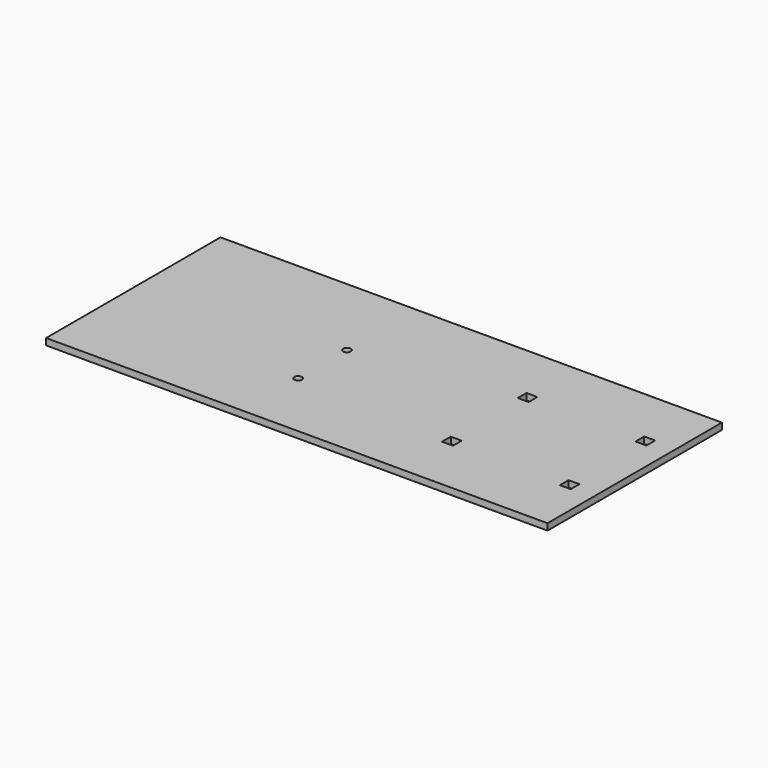
from build123d import *

# Parameters (mm, degrees)
F0_W     = 230
F0_H     = 100
F0_W_2   = 5
F0_H_2   = 5
F1_DEPTH = 3
F3_R     = 1.75
F4_DEPTH = 25


with BuildPart() as f1:
    # F0 (on Top) → F1 (new body)
    with BuildSketch(Plane.XY):
        with Locations((-65, 0)):
            Rectangle(F0_W, F0_H)
        with Locations((-16.5, -21.7)):
            Rectangle(F0_W_2, F0_H_2, mode=Mode.SUBTRACT)
        with Locations((37.5, -21.7)):
            Rectangle(F0_W_2, F0_H_2, mode=Mode.SUBTRACT)
        with Locations((-16.5, 21.7)):
            Rectangle(F0_W_2, F0_H_2, mode=Mode.SUBTRACT)
        with Locations((37.5, 21.7)):
            Rectangle(F0_W_2, F0_H_2, mode=Mode.SUBTRACT)
    extrude(amount=F1_DEPTH)

    # F3 (on face) → F4 (cut)
    with BuildSketch(Plane.XY.offset(3)):
        with Locations((-90, 10)):
            Circle(F3_R)
        with Locations((-90, -18)):
            Circle(F3_R)
    extrude(amount=-F4_DEPTH, mode=Mode.SUBTRACT)


solid = f1.part
